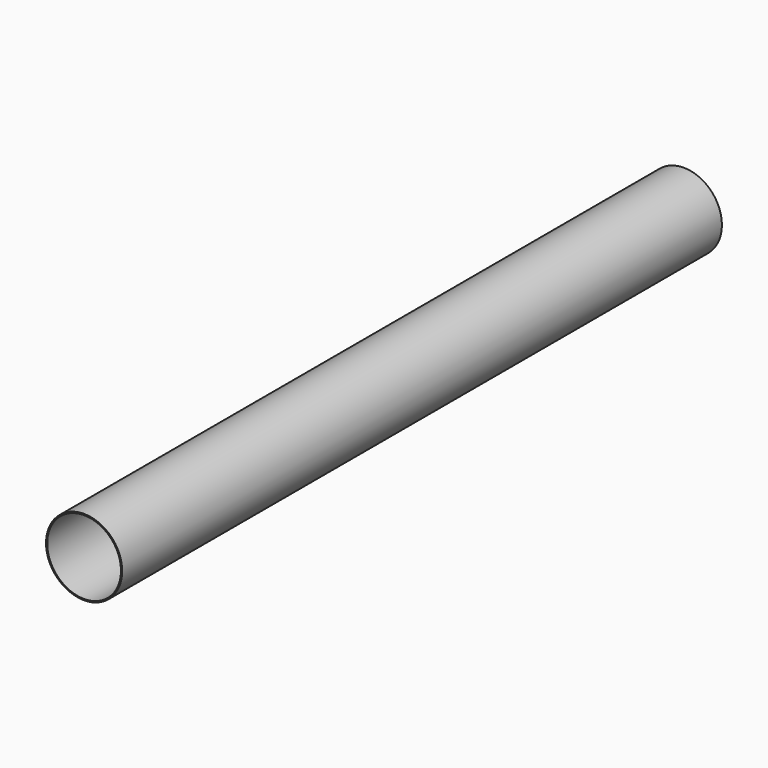
from build123d import *

# Parameters (mm, degrees)
F0_R     = 50.8
F0_R_2   = 49.2
F1_DEPTH = 1000


with BuildPart() as f1:
    # F0 (on Front) → F1 (new body)
    with BuildSketch(Plane.XZ):
        with Locations((-57.452384, 54.398566)):
            Circle(F0_R)
        with Locations((-57.452384, 54.398566)):
            Circle(F0_R_2, mode=Mode.SUBTRACT)
    extrude(amount=-F1_DEPTH)


solid = f1.part
